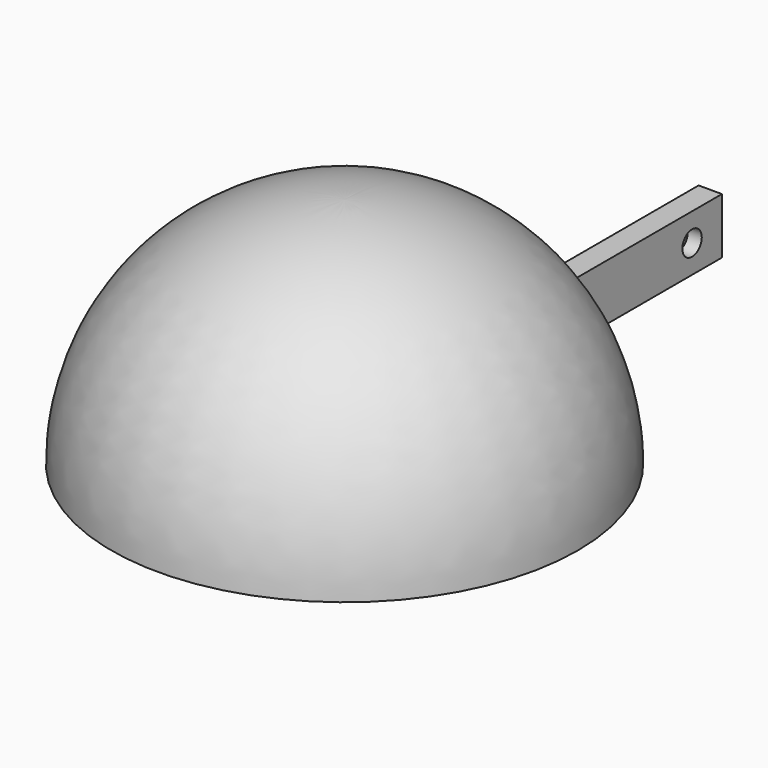
from build123d import *

# Parameters (mm, degrees)
SKETCH001_W  = 6
SKETCH001_H  = 2.5
PAD_DEPTH    = 25
SKETCH002_R  = 1.3
POCKET_DEPTH = 2.5
CHAMFER_SIZE = 1


with BuildPart() as part:
    # Sketch → Revolution (revolve)
    with BuildSketch(Plane.YZ):
        with BuildLine():
            ThreePointArc((25, 0), (17.67767, 17.67767), (0, 25))
            Line((0, 25), (0, 24))
            ThreePointArc((24, 0), (16.970563, 16.970563), (0, 24))
            Line((24, 0), (25, 0))
        make_face()
    revolve(axis=Axis((0, 0, 0), (0, 0, 1)))

    # Sketch001 (on DatumPlane) → Pad (new body)
    with BuildSketch(Plane.ZX.offset(24)):
        with Locations((3, 0)):
            Rectangle(SKETCH001_W, SKETCH001_H)
    extrude(amount=PAD_DEPTH)

    # Sketch002 (on Face8 of Pad) → Pocket (cut)
    with BuildSketch(Plane(origin=(-1.25, 0, 0), x_dir=(0, 1, 0), z_dir=(-1, 0, 0))):
        with Locations((45, -3)):
            Circle(SKETCH002_R)
    extrude(amount=-POCKET_DEPTH, mode=Mode.SUBTRACT)

    # Chamfer
    chamfer_edges = [part.edges().sort_by_distance(p)[0] for p in [
        (-1.25, 43.7, 3),
    ]]
    chamfer(chamfer_edges, length=CHAMFER_SIZE)


solid = part.part
